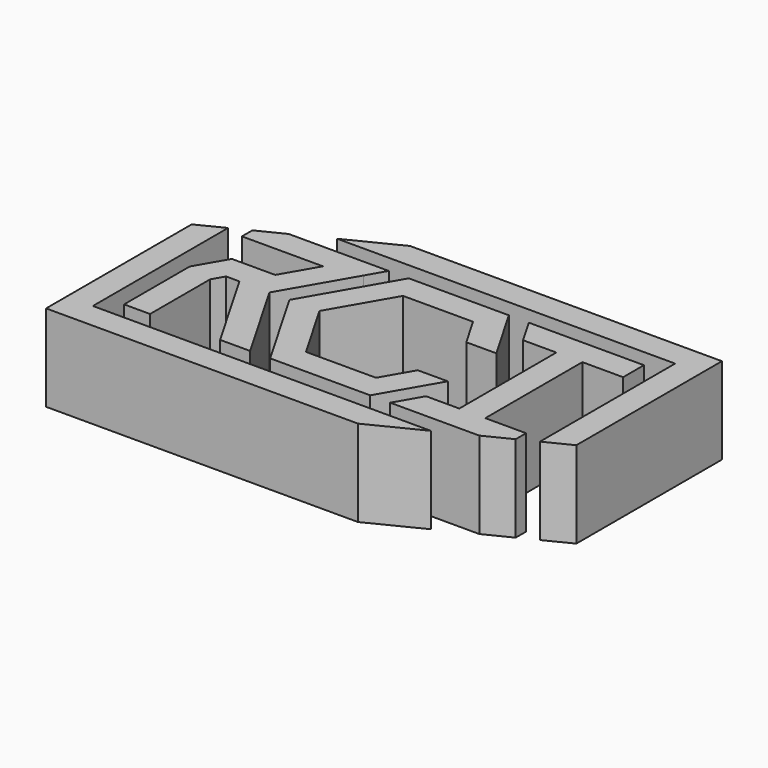
from build123d import *

# Parameters (mm, degrees)
F3_DEPTH = 25


with BuildPart() as f3:
    # F2 (on Top) → F3 (new body)
    with BuildSketch(Plane.XY):
        Polygon((-69.074772, 15), (-69.074772, -37.5), (20.9049, -37.5), (35.9049, -30), (-61.574772, -30), (-61.574772, 18.75), align=None)
        Polygon((-38.971142, 7.5), (-49.074772, 7.5), (-51.480398, 7.5), (-56.574772, -1.323714), (-56.574772, -25), (-49.074772, -25), (-49.074772, -3.333333), (-47.150271, 0), (-43.301269, 0), (-28.867512, -25), (-20.207258, -25), (-34.641015, 0), (-23.238347, 19.75), (-20.207258, 25), (-49.074772, 25), (-56.574772, 21.25), (-56.574772, 17.5), (-49.074772, 17.5), (-33.197639, 17.5), align=None)
        Polygon((65.9049, -15), (65.9049, 37.5), (-24.074772, 37.5), (-39.074772, 30), (58.4049, 30), (58.4049, -18.75), align=None)
        Polygon((-28.867513, 0), (-14.433757, -25), (14.433757, -25), (23.815699, -8.75), (15.155445, -8.75), (10.10363, -17.5), (-10.10363, -17.5), (-20.207259, 0), (-10.10363, 17.5), (10.10363, 17.5), (15.155445, 8.75), (23.815699, 8.75), (14.433757, 25), (-14.433757, 25), align=None)
        Polygon((41.638611, -17.5), (41.638611, 17.5), (34.138611, 17.5), (34.138611, -17.5), (24.537386, -17.5), (20.207259, -25), (45.9049, -25), (53.4049, -21.25), (53.4049, -17.5), align=None)
        Polygon((34.138611, 17.5), (41.638611, 17.5), (53.4049, 17.5), (53.4049, 25), (20.207259, 25), (24.537386, 17.5), align=None)
    extrude(amount=F3_DEPTH)


solid = f3.part
